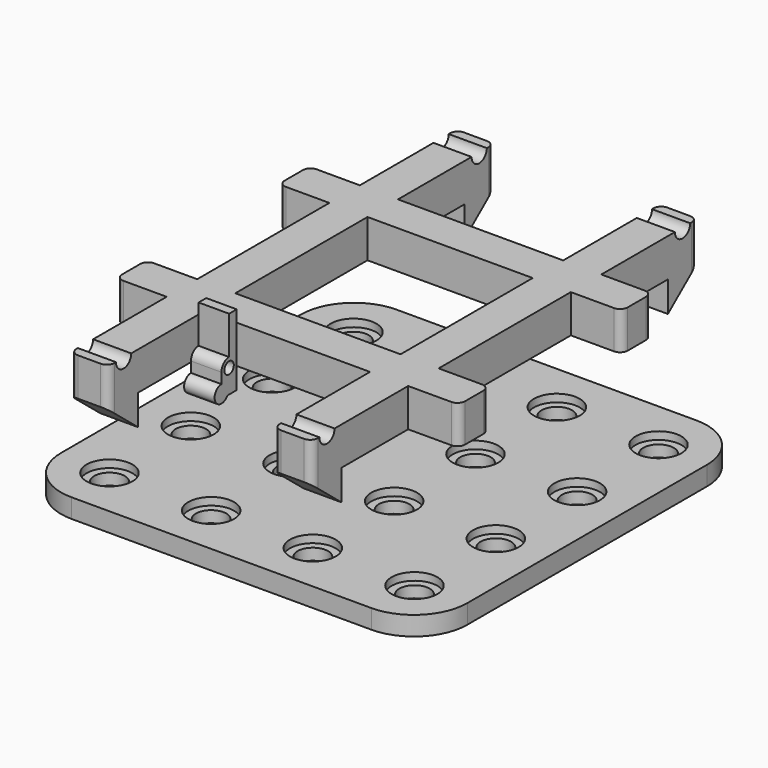
from build123d import *

# Parameters (mm, degrees)
SKETCH_W         = 106.6
SKETCH_H         = 106.6
PAD_DEPTH        = 5
HOLE_D           = 8
HOLE_CBORE_D     = 12
HOLE_CBORE_DEPTH = 2
FILLET001_R      = 14
PAD001_DEPTH     = 45
SKETCH004_W      = 40
SKETCH004_H      = 40
SKETCH004_W_2    = 21.67
SKETCH004_H_2    = 43.34
POCKET_DEPTH     = 330.740892
FILLET_R         = 2
SKETCH003_R      = 1.55
PAD002_DEPTH     = 4


with BuildPart() as body:
    # Sketch → Pad (new body)
    with BuildSketch(Plane.XY):
        Rectangle(SKETCH_W, SKETCH_H)
    extrude(amount=PAD_DEPTH)

    # Hole (through all)
    with Locations(Plane.XY.offset(5)):
        with Locations((-40.005, 40.005), (-13.335, 40.005), (13.335, 40.005), (40.005, 40.005), (-40.005, 13.335), (-13.335, 13.335), (13.335, 13.335), (40.005, 13.335), (-40.005, -13.335), (-13.335, -13.335), (13.335, -13.335), (40.005, -13.335), (-40.005, -40.005), (-13.335, -40.005), (13.335, -40.005), (40.005, -40.005)):
            CounterBoreHole(HOLE_D / 2, HOLE_CBORE_D / 2, HOLE_CBORE_DEPTH)

    # Fillet001
    fillet001_edges = [body.edges().sort_by_distance(p)[0] for p in [
        (-53.3, -53.3, 2.5),
        (53.3, -53.3, 2.5),
        (53.3, 53.3, 2.5),
        (-53.3, 53.3, 2.5),
    ]]
    fillet(fillet001_edges, radius=FILLET001_R)


with BuildPart() as body001:
    # Sketch002 → Pad001 (new body, symmetric)
    with BuildSketch(Plane.YZ):
        with BuildLine():
            Line((63.3, 35), (63.3, 45))
            Line((60.8, 45), (63.3, 45))
            ThreePointArc((55.8, 45), (58.3, 42.5), (60.8, 45))
            Line((-55.8, 45), (55.8, 45))
            ThreePointArc((-60.8, 45), (-58.3, 42.5), (-55.8, 45))
            Line((-63.3, 45), (-60.8, 45))
            Line((-63.3, 45), (-63.3, 35))
            Line((-63.3, 35), (-53.5, 27))
            Line((-53.5, 27), (-53.5, 35))
            Line((-53.5, 35), (53.5, 35))
            Line((53.5, 35), (53.5, 27))
            Line((53.5, 27), (63.3, 35))
        make_face()
    extrude(amount=PAD001_DEPTH, both=True)

    # Sketch004 (on Face10 of Pad001) → Pocket (cut, through all)
    with BuildSketch(Plane(origin=(0, 0, 45), x_dir=(0, -1, 0), z_dir=(0, 0, 1))):
        with Locations((-51.67, 51.67)):
            Rectangle(SKETCH004_W, SKETCH004_H)
        with Locations((-10.835, 51.67)):
            Rectangle(SKETCH004_W_2, SKETCH004_H)
        with Locations((-51.67, 0)):
            Rectangle(SKETCH004_W, SKETCH004_H_2)
        with Locations((-51.67, -51.67)):
            Rectangle(SKETCH004_W, SKETCH004_H)
        with Locations((-10.835, 0)):
            Rectangle(SKETCH004_W_2, SKETCH004_H_2)
        with Locations((-10.835, -51.67)):
            Rectangle(SKETCH004_W_2, SKETCH004_H)
    pocket = extrude(amount=-POCKET_DEPTH, mode=Mode.SUBTRACT)

    # Mirrored: Pocket across Sketch004 V_Axis
    add(pocket.mirror(Plane(origin=(0, 0, 45), x_dir=(0, 0, 1), z_dir=(0, -1, 0))), mode=Mode.SUBTRACT)

    # Fillet
    fillet_edges = [body001.edges().sort_by_distance(p)[0] for p in [
        (-21.67, -63.3, 40),
        (-31.67, -63.3, 40),
        (21.67, -63.3, 40),
        (31.67, -63.3, 40),
        (31.67, 63.3, 40),
        (-21.67, 63.3, 40),
        (-31.67, 63.3, 40),
        (21.67, 63.3, 40),
        (45, 31.67, 40),
        (45, -21.67, 40),
        (-45, -21.67, 40),
        (-45, 31.67, 40),
        (-45, 21.67, 40),
        (-45, -31.67, 40),
        (45, -31.67, 40),
        (45, 21.67, 40),
    ]]
    fillet(fillet_edges, radius=FILLET_R)


with BuildPart() as body002:
    # Sketch003 → Pad002 (new body, symmetric)
    with BuildSketch(Plane.YZ):
        with BuildLine():
            ThreePointArc((-58.3, 47.25), (-60.258429, 43.892274), (-56.371642, 43.840717))
            Line((-56.371642, 43.840717), (-53.3, 43.840717))
            Line((-53.3, 43.840717), (-53.3, 62.5))
            Line((-53.3, 62.5), (-55.8, 62.5))
            Line((-55.8, 62.5), (-55.8, 52.5))
            ThreePointArc((-55.8, 52.5), (-57.567767, 51.767767), (-58.3, 50))
            Line((-58.3, 50), (-58.3, 47.25))
        make_face()
        with Locations((-55.8, 50)):
            Circle(SKETCH003_R, mode=Mode.SUBTRACT)
    extrude(amount=PAD002_DEPTH, both=True)


solid = Compound([body.part, body001.part, body002.part])
